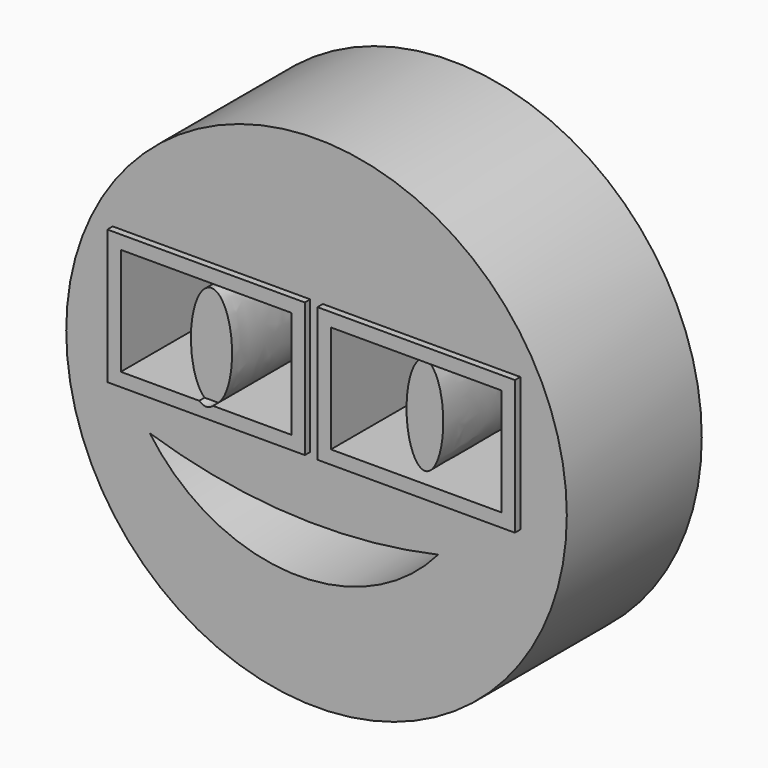
from build123d import *

# Parameters (mm, degrees)
F0_R     = 37.0955013876
F0_W     = 29.2723282687
F0_H     = 19.9155462906
F1_DEPTH = 25
F0_W_2   = 25.2723282687
F0_H_2   = 15.9155462906
F2_DEPTH = 26
F3_DEPTH = 25
F4_DEPTH = 2


with BuildPart() as f1:
    # F0 (on Front) → F1 (new body)
    with BuildSketch(Plane.XZ):
        Circle(F0_R)
        with BuildLine():
            ThreePointArc((18.0157609284, -11.3276327029), (-3.8265162981, -20.8055450269), (-24.7120950371, -9.3727633357))
            ThreePointArc((-24.7120950371, -9.3727633357), (-3.4784284845, -13.1973405033), (18.0157609284, -11.3276327029))
        make_face(mode=Mode.SUBTRACT)
        with Locations((-15.5684681851, 5.8646076359)):
            Rectangle(F0_W, F0_H, mode=Mode.SUBTRACT)
        with Locations((15.5684681851, 5.8646076359)):
            Rectangle(F0_W, F0_H, mode=Mode.SUBTRACT)
    extrude(amount=F1_DEPTH)

    # F0 (on Front) → F2 (join)
    with BuildSketch(Plane.XZ):
        with Locations((-15.5684681851, 5.8646076359)):
            Rectangle(F0_W, F0_H)
        with BuildLine():
            Line((-28.2046323195, -2.0931655094), (-28.2046323195, 13.8223807812))
            Line((-28.2046323195, 13.8223807812), (-2.9323040508, 13.8223807812))
            Line((-2.9323040508, 13.8223807812), (-2.9323040508, -2.0931655094))
            Line((-2.9323040508, -2.0931655094), (-14.5445793157, -2.0931655094))
            add(Edge.make_bspline(
                [(-16.5923570545, -2.0931655094), (-15.5684681851, -2.9923882857), (-14.5445793157, -2.0931655094)],
                knots=[2.7997772501, 2.7997772501, 2.7997772501, 3.4834080571, 3.4834080571, 3.4834080571], degree=2, weights=[1, 0.9421476987, 1]))
            Line((-16.5923570545, -2.0931655094), (-28.2046323195, -2.0931655094))
        make_face(mode=Mode.SUBTRACT)
        with Locations((15.5684681851, 5.8646076359)):
            Rectangle(F0_W, F0_H)
        with Locations((15.5684681851, 5.8646076359)):
            Rectangle(F0_W_2, F0_H_2, mode=Mode.SUBTRACT)
    extrude(amount=F2_DEPTH)


with BuildPart() as f3:
    # F0 (on Front) → F3 (new body)
    with BuildSketch(Plane.XZ):
        with BuildLine():
            add(Edge.make_bspline(
                [(-15.5684681851, 12.5510344729), (-18.1410138958, 12.5510344729), (-18.5785444858, 6.2932406351), (-19.0160750757, 0.0354467973), (-16.5923570545, -2.0931655094)],
                knots=[0, 0, 0, 1.3998886251, 1.3998886251, 2.7997772501, 2.7997772501, 2.7997772501], degree=2, weights=[1, 0.764878061, 1, 0.764878061, 1]))
            Line((-16.5923570545, -2.0931655094), (-14.5445793157, -2.0931655094))
            add(Edge.make_bspline(
                [(-14.5445793157, -2.0931655094), (-12.1208612946, 0.0354467973), (-12.5583918845, 6.2932406351), (-12.9959224745, 12.5510344729), (-15.5684681851, 12.5510344729)],
                knots=[3.4834080571, 3.4834080571, 3.4834080571, 4.8832966821, 4.8832966821, 6.2831853072, 6.2831853072, 6.2831853072], degree=2, weights=[1, 0.764878061, 1, 0.764878061, 1]))
        make_face()
    extrude(amount=F3_DEPTH)


with BuildPart() as f3b:
    # F0 (on Front) → F3, piece 2 (new body)
    with BuildSketch(Plane.XZ):
        with BuildLine():
            add(Edge.make_bspline(
                [(16.0608887672, 13.5271316394), (11.3416859634, 13.5271316394), (13.7012873653, 2.6101054172), (16.0608887672, -8.306920805), (18.4204901692, 2.6101054172), (20.7800915711, 13.5271316394), (16.0608887672, 13.5271316394)],
                knots=[0, 0, 0, 2.0943951024, 2.0943951024, 4.1887902048, 4.1887902048, 6.2831853072, 6.2831853072, 6.2831853072], degree=2, weights=[1, 0.5, 1, 0.5, 1, 0.5, 1]))
        make_face()
    extrude(amount=F3_DEPTH)


with BuildPart() as f4:
    # F0 (on Front) → F4 (new body)
    with BuildSketch(Plane.XZ):
        with Locations((15.5684681851, 5.8646076359)):
            Rectangle(F0_W_2, F0_H_2)
        with BuildLine():
            add(Edge.make_bspline(
                [(16.0608887672, 13.5271316394), (11.3416859634, 13.5271316394), (13.7012873653, 2.6101054172), (16.0608887672, -8.306920805), (18.4204901692, 2.6101054172), (20.7800915711, 13.5271316394), (16.0608887672, 13.5271316394)],
                knots=[0, 0, 0, 2.0943951024, 2.0943951024, 4.1887902048, 4.1887902048, 6.2831853072, 6.2831853072, 6.2831853072], degree=2, weights=[1, 0.5, 1, 0.5, 1, 0.5, 1]))
        make_face(mode=Mode.SUBTRACT)
    extrude(amount=F4_DEPTH)


with BuildPart() as f4b:
    # F0 (on Front) → F4, piece 2 (new body)
    with BuildSketch(Plane.XZ):
        with BuildLine():
            Line((-2.9323040508, 13.8223807812), (-28.2046323195, 13.8223807812))
            Line((-28.2046323195, 13.8223807812), (-28.2046323195, -2.0931655094))
            Line((-28.2046323195, -2.0931655094), (-16.5923570545, -2.0931655094))
            add(Edge.make_bspline(
                [(-15.5684681851, 12.5510344729), (-18.1410138958, 12.5510344729), (-18.5785444858, 6.2932406351), (-19.0160750757, 0.0354467973), (-16.5923570545, -2.0931655094)],
                knots=[0, 0, 0, 1.3998886251, 1.3998886251, 2.7997772501, 2.7997772501, 2.7997772501], degree=2, weights=[1, 0.764878061, 1, 0.764878061, 1]))
            add(Edge.make_bspline(
                [(-14.5445793157, -2.0931655094), (-12.1208612946, 0.0354467973), (-12.5583918845, 6.2932406351), (-12.9959224745, 12.5510344729), (-15.5684681851, 12.5510344729)],
                knots=[3.4834080571, 3.4834080571, 3.4834080571, 4.8832966821, 4.8832966821, 6.2831853072, 6.2831853072, 6.2831853072], degree=2, weights=[1, 0.764878061, 1, 0.764878061, 1]))
            Line((-14.5445793157, -2.0931655094), (-2.9323040508, -2.0931655094))
            Line((-2.9323040508, -2.0931655094), (-2.9323040508, 13.8223807812))
        make_face()
    extrude(amount=F4_DEPTH)


solid = Compound([f1.part, f3.part, f3b.part, f4.part, f4b.part])
